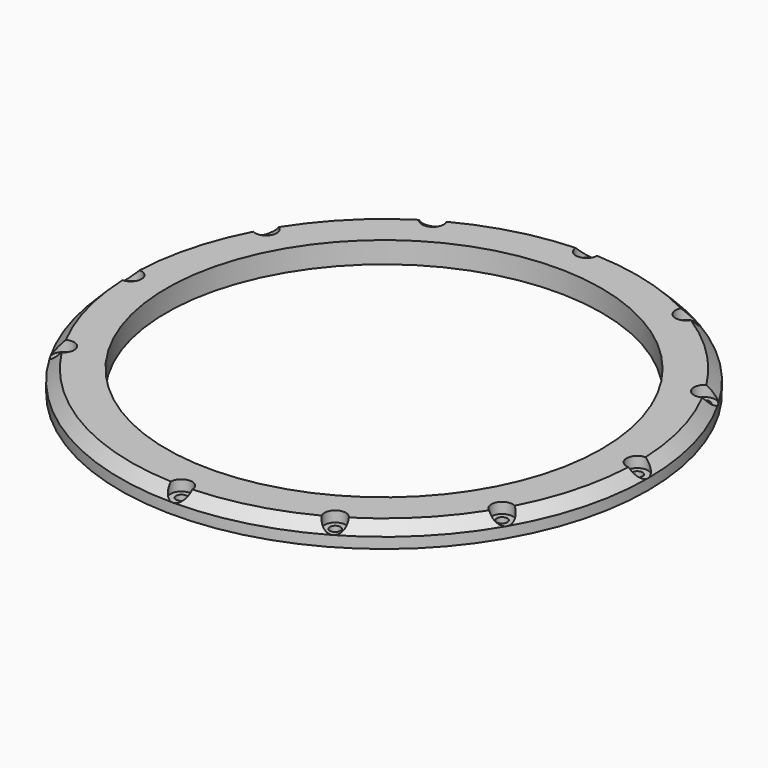
from build123d import *

# Parameters (mm, degrees)
CYLINDER974_R               = 1.5
CYLINDER974_DEPTH           = 60
CYLINDER974_PLACEMENT_ANGLE = 30
CYLINDER975_R               = 1.5
CYLINDER975_DEPTH           = 60
CYLINDER975_PLACEMENT_ANGLE = 60
CYLINDER976_R               = 1.5
CYLINDER976_DEPTH           = 60
CYLINDER977_R               = 1.5
CYLINDER977_DEPTH           = 60
CYLINDER977_PLACEMENT_ANGLE = 120
CYLINDER978_R               = 1.5
CYLINDER978_DEPTH           = 60
CYLINDER978_PLACEMENT_ANGLE = 150
CYLINDER979_R               = 1.5
CYLINDER979_DEPTH           = 60
CYLINDER980_R               = 1.5
CYLINDER980_DEPTH           = 60
CYLINDER980_PLACEMENT_ANGLE = 210
CYLINDER981_R               = 1.5
CYLINDER981_DEPTH           = 60
CYLINDER981_PLACEMENT_ANGLE = 240
CYLINDER982_R               = 1.5
CYLINDER982_DEPTH           = 60
CYLINDER983_R               = 1.5
CYLINDER983_DEPTH           = 60
CYLINDER983_PLACEMENT_ANGLE = 60
CYLINDER973_R               = 1.5
CYLINDER973_DEPTH           = 60
CYLINDER990_R               = 3
CYLINDER990_DEPTH           = 3
CYLINDER990_PLACEMENT_ANGLE = 30
CYLINDER991_R               = 3
CYLINDER991_DEPTH           = 3
CYLINDER991_PLACEMENT_ANGLE = 60
CYLINDER987_R               = 3
CYLINDER987_DEPTH           = 3
CYLINDER988_R               = 3
CYLINDER988_DEPTH           = 3
CYLINDER988_PLACEMENT_ANGLE = 120
CYLINDER984_R               = 3
CYLINDER984_DEPTH           = 3
CYLINDER984_PLACEMENT_ANGLE = 150
CYLINDER989_R               = 3
CYLINDER989_DEPTH           = 3
CYLINDER994_R               = 3
CYLINDER994_DEPTH           = 3
CYLINDER994_PLACEMENT_ANGLE = 210
CYLINDER985_R               = 3
CYLINDER985_DEPTH           = 3
CYLINDER985_PLACEMENT_ANGLE = 240
CYLINDER986_R               = 3
CYLINDER986_DEPTH           = 3
CYLINDER992_R               = 3
CYLINDER992_DEPTH           = 3
CYLINDER992_PLACEMENT_ANGLE = 60
CYLINDER993_R               = 3
CYLINDER993_DEPTH           = 3
TUBE031_R                   = 74
TUBE031_R_2                 = 61
TUBE031_DEPTH               = 6
CHAMFER_SIZE                = 3


with BuildPart() as obj1:
    # Cylinder974 → Cylinder974 (new body)
    with BuildSketch(Plane.XY):
        Circle(CYLINDER974_R)
    extrude(amount=CYLINDER974_DEPTH)


with BuildPart() as obj1_1:
    # Cylinder974 placement: moved
    add(obj1.part.moved(Location((35.5, -61.487804, 0))).rotate(Axis((35.5, -61.487804, 0), (0, 0, 1)), CYLINDER974_PLACEMENT_ANGLE))


with BuildPart() as obj2:
    # Cylinder975 → Cylinder975 (new body)
    with BuildSketch(Plane.XY):
        Circle(CYLINDER975_R)
    extrude(amount=CYLINDER975_DEPTH)


with BuildPart() as obj2_1:
    # Cylinder975 placement: moved
    add(obj2.part.moved(Location((61.487804, -35.5, 0))).rotate(Axis((61.487804, -35.5, 0), (0, 0, 1)), CYLINDER975_PLACEMENT_ANGLE))


with BuildPart() as obj3:
    # Cylinder976 → Cylinder976 (new body)
    with BuildSketch(Plane(origin=(71, 0, 0), x_dir=(0, 1, 0), z_dir=(0, 0, 1))):
        Circle(CYLINDER976_R)
    extrude(amount=CYLINDER976_DEPTH)


with BuildPart() as obj4:
    # Cylinder977 → Cylinder977 (new body)
    with BuildSketch(Plane.XY):
        Circle(CYLINDER977_R)
    extrude(amount=CYLINDER977_DEPTH)


with BuildPart() as obj4_1:
    # Cylinder977 placement: moved
    add(obj4.part.moved(Location((61.487804, 35.5, 0))).rotate(Axis((61.487804, 35.5, 0), (0, 0, 1)), CYLINDER977_PLACEMENT_ANGLE))


with BuildPart() as obj5:
    # Cylinder978 → Cylinder978 (new body)
    with BuildSketch(Plane.XY):
        Circle(CYLINDER978_R)
    extrude(amount=CYLINDER978_DEPTH)


with BuildPart() as obj5_1:
    # Cylinder978 placement: moved
    add(obj5.part.moved(Location((35.5, 61.487804, 0))).rotate(Axis((35.5, 61.487804, 0), (0, 0, 1)), CYLINDER978_PLACEMENT_ANGLE))


with BuildPart() as obj6:
    # Cylinder979 → Cylinder979 (new body)
    with BuildSketch(Plane(origin=(0, 71, 0), x_dir=(-1, 0, 0), z_dir=(0, 0, 1))):
        Circle(CYLINDER979_R)
    extrude(amount=CYLINDER979_DEPTH)


with BuildPart() as obj7:
    # Cylinder980 → Cylinder980 (new body)
    with BuildSketch(Plane.XY):
        Circle(CYLINDER980_R)
    extrude(amount=CYLINDER980_DEPTH)


with BuildPart() as obj7_1:
    # Cylinder980 placement: moved
    add(obj7.part.moved(Location((-35.5, 61.487804, 0))).rotate(Axis((-35.5, 61.487804, 0), (0, 0, 1)), CYLINDER980_PLACEMENT_ANGLE))


with BuildPart() as obj8:
    # Cylinder981 → Cylinder981 (new body)
    with BuildSketch(Plane.XY):
        Circle(CYLINDER981_R)
    extrude(amount=CYLINDER981_DEPTH)


with BuildPart() as obj8_1:
    # Cylinder981 placement: moved
    add(obj8.part.moved(Location((-61.487804, 35.5, 0))).rotate(Axis((-61.487804, 35.5, 0), (0, 0, 1)), CYLINDER981_PLACEMENT_ANGLE))


with BuildPart() as obj9:
    # Cylinder982 → Cylinder982 (new body)
    with BuildSketch(Plane(origin=(-71, 0, 0), x_dir=(0, -1, 0), z_dir=(0, 0, 1))):
        Circle(CYLINDER982_R)
    extrude(amount=CYLINDER982_DEPTH)


with BuildPart() as obj10:
    # Cylinder983 → Cylinder983 (new body)
    with BuildSketch(Plane.XY):
        Circle(CYLINDER983_R)
    extrude(amount=CYLINDER983_DEPTH)


with BuildPart() as obj10_1:
    # Cylinder983 placement: moved
    add(obj10.part.moved(Location((-61.487804, -35.5, 0))).rotate(Axis((-61.487804, -35.5, 0), (0, 0, -1)), CYLINDER983_PLACEMENT_ANGLE))


with BuildPart() as compound525:
    # Cylinder973 → Cylinder973 (new body)
    with BuildSketch(Plane(origin=(0, -71, 0), x_dir=(1, 0, 0), z_dir=(0, 0, 1))):
        Circle(CYLINDER973_R)
    extrude(amount=CYLINDER973_DEPTH)

    # Compound525: union obj1, obj2, obj3, obj4, obj5, obj6, obj7, obj8, obj9, obj10
    add(obj1_1.part)
    add(obj2_1.part)
    add(obj3.part)
    add(obj4_1.part)
    add(obj5_1.part)
    add(obj6.part)
    add(obj7_1.part)
    add(obj8_1.part)
    add(obj9.part)
    add(obj10_1.part)


with BuildPart() as obj11:
    # Cylinder990 → Cylinder990 (new body)
    with BuildSketch(Plane.XY):
        Circle(CYLINDER990_R)
    extrude(amount=CYLINDER990_DEPTH)


with BuildPart() as obj11_1:
    # Cylinder990 placement: moved
    add(obj11.part.moved(Location((35.5, -61.487804, 0))).rotate(Axis((35.5, -61.487804, 0), (0, 0, 1)), CYLINDER990_PLACEMENT_ANGLE))


with BuildPart() as obj12:
    # Cylinder991 → Cylinder991 (new body)
    with BuildSketch(Plane.XY):
        Circle(CYLINDER991_R)
    extrude(amount=CYLINDER991_DEPTH)


with BuildPart() as obj12_1:
    # Cylinder991 placement: moved
    add(obj12.part.moved(Location((61.487804, -35.5, 0))).rotate(Axis((61.487804, -35.5, 0), (0, 0, 1)), CYLINDER991_PLACEMENT_ANGLE))


with BuildPart() as obj13:
    # Cylinder987 → Cylinder987 (new body)
    with BuildSketch(Plane(origin=(71, 0, 0), x_dir=(0, 1, 0), z_dir=(0, 0, 1))):
        Circle(CYLINDER987_R)
    extrude(amount=CYLINDER987_DEPTH)


with BuildPart() as obj14:
    # Cylinder988 → Cylinder988 (new body)
    with BuildSketch(Plane.XY):
        Circle(CYLINDER988_R)
    extrude(amount=CYLINDER988_DEPTH)


with BuildPart() as obj14_1:
    # Cylinder988 placement: moved
    add(obj14.part.moved(Location((61.487804, 35.5, 0))).rotate(Axis((61.487804, 35.5, 0), (0, 0, 1)), CYLINDER988_PLACEMENT_ANGLE))


with BuildPart() as obj15:
    # Cylinder984 → Cylinder984 (new body)
    with BuildSketch(Plane.XY):
        Circle(CYLINDER984_R)
    extrude(amount=CYLINDER984_DEPTH)


with BuildPart() as obj15_1:
    # Cylinder984 placement: moved
    add(obj15.part.moved(Location((35.5, 61.487804, 0))).rotate(Axis((35.5, 61.487804, 0), (0, 0, 1)), CYLINDER984_PLACEMENT_ANGLE))


with BuildPart() as obj16:
    # Cylinder989 → Cylinder989 (new body)
    with BuildSketch(Plane(origin=(0, 71, 0), x_dir=(-1, 0, 0), z_dir=(0, 0, 1))):
        Circle(CYLINDER989_R)
    extrude(amount=CYLINDER989_DEPTH)


with BuildPart() as obj17:
    # Cylinder994 → Cylinder994 (new body)
    with BuildSketch(Plane.XY):
        Circle(CYLINDER994_R)
    extrude(amount=CYLINDER994_DEPTH)


with BuildPart() as obj17_1:
    # Cylinder994 placement: moved
    add(obj17.part.moved(Location((-35.5, 61.487804, 0))).rotate(Axis((-35.5, 61.487804, 0), (0, 0, 1)), CYLINDER994_PLACEMENT_ANGLE))


with BuildPart() as obj18:
    # Cylinder985 → Cylinder985 (new body)
    with BuildSketch(Plane.XY):
        Circle(CYLINDER985_R)
    extrude(amount=CYLINDER985_DEPTH)


with BuildPart() as obj18_1:
    # Cylinder985 placement: moved
    add(obj18.part.moved(Location((-61.487804, 35.5, 0))).rotate(Axis((-61.487804, 35.5, 0), (0, 0, 1)), CYLINDER985_PLACEMENT_ANGLE))


with BuildPart() as obj19:
    # Cylinder986 → Cylinder986 (new body)
    with BuildSketch(Plane(origin=(-71, 0, 0), x_dir=(0, -1, 0), z_dir=(0, 0, 1))):
        Circle(CYLINDER986_R)
    extrude(amount=CYLINDER986_DEPTH)


with BuildPart() as obj20:
    # Cylinder992 → Cylinder992 (new body)
    with BuildSketch(Plane.XY):
        Circle(CYLINDER992_R)
    extrude(amount=CYLINDER992_DEPTH)


with BuildPart() as obj20_1:
    # Cylinder992 placement: moved
    add(obj20.part.moved(Location((-61.487804, -35.5, 0))).rotate(Axis((-61.487804, -35.5, 0), (0, 0, -1)), CYLINDER992_PLACEMENT_ANGLE))


with BuildPart() as compound526:
    # Cylinder993 → Cylinder993 (new body)
    with BuildSketch(Plane(origin=(0, -71, 0), x_dir=(1, 0, 0), z_dir=(0, 0, 1))):
        Circle(CYLINDER993_R)
    extrude(amount=CYLINDER993_DEPTH)

    # Compound526: union obj11, obj12, obj13, obj14, obj15, obj16, obj17, obj18, obj19, obj20
    add(obj11_1.part)
    add(obj12_1.part)
    add(obj13.part)
    add(obj14_1.part)
    add(obj15_1.part)
    add(obj16.part)
    add(obj17_1.part)
    add(obj18_1.part)
    add(obj19.part)
    add(obj20_1.part)


with BuildPart() as compound526_1:
    # Compound526 placement: moved
    add(compound526.part.moved(Location((0, 0, 17))))


with BuildPart() as obj21:
    # Tube031 → Tube031 (new body)
    with BuildSketch(Plane.XY.offset(14)):
        Circle(TUBE031_R)
        Circle(TUBE031_R_2, mode=Mode.SUBTRACT)
    extrude(amount=TUBE031_DEPTH)

    # Chamfer
    chamfer_edges = [obj21.edges().sort_by_distance(p)[0] for p in [
        (-74, 0, 20),
    ]]
    chamfer(chamfer_edges, length=CHAMFER_SIZE)

    # Cut207: cut Compound526
    add(compound526_1.part, mode=Mode.SUBTRACT)

    # Cut208: cut Compound525
    add(compound525.part, mode=Mode.SUBTRACT)


solid = obj21.part
